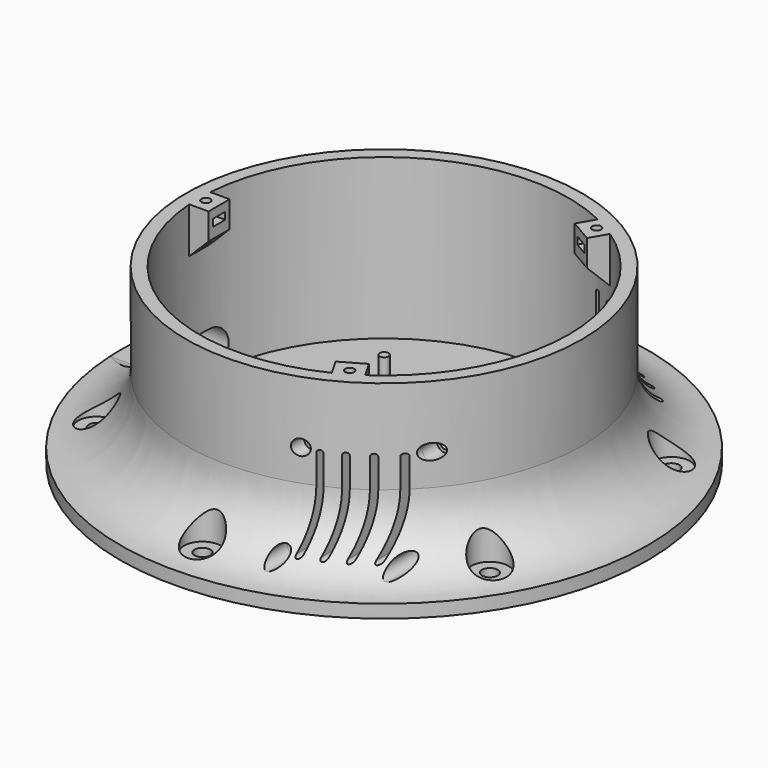
from build123d import *

# Parameters (mm, degrees)
CYLINDER_R               = 2.95
CYLINDER_DEPTH           = 7
CYLINDER001_R            = 1.7
CYLINDER001_DEPTH        = 30
PAD002_DEPTH             = 2.7
CYLINDER1049_R           = 3.4
CYLINDER1049_DEPTH       = 10
PAD046_DEPTH             = 10
CYLINDER1050_R           = 3
CYLINDER1050_DEPTH       = 15
CYLINDER1051_R           = 7
CYLINDER1051_DEPTH       = 15
PAD050_DEPTH             = 100
CLONE444_PITCH_ANGLE     = 90
CLONE444_PLACEMENT_ANGLE = 90
CLONE445_PITCH_ANGLE     = 90
CLONE445_PLACEMENT_ANGLE = 90
CLONE446_PITCH_ANGLE     = 90
CLONE446_PLACEMENT_ANGLE = 90
CLONE447_PITCH_ANGLE     = 90
CLONE447_PLACEMENT_ANGLE = 90
BOX_W                    = 42
BOX_H                    = 7
BOX_DEPTH                = 42
CYLINDER1052_R           = 1.7
CYLINDER1052_DEPTH       = 21
CYLINDER1052_ROLL_ANGLE  = 90
CYLINDER1053_R           = 2.95
CYLINDER1053_DEPTH       = 21
CYLINDER1053_ROLL_ANGLE  = 90
CYLINDER1054_R           = 2.95
CYLINDER1054_DEPTH       = 21
CYLINDER1054_ROLL_ANGLE  = 90
CYLINDER1055_R           = 2.95
CYLINDER1055_DEPTH       = 21
CYLINDER1055_ROLL_ANGLE  = 90
CYLINDER1056_R           = 1.7
CYLINDER1056_DEPTH       = 21
CYLINDER1056_ROLL_ANGLE  = 90
PAD047_DEPTH             = 40
ARRAY024_COUNT           = 6
CLONE398_PLACEMENT_ANGLE = 180
ARRAY023_COUNT           = 3
ARRAY022_COUNT           = 3
PAD_DEPTH                = 47


with BuildPart() as m3bolthead:
    # Cylinder → Cylinder (new body)
    with BuildSketch(Plane.XY):
        Circle(CYLINDER_R)
    extrude(amount=CYLINDER_DEPTH)


with BuildPart() as m3bolt:
    # Cylinder001 → Cylinder001 (new body)
    with BuildSketch(Plane.XY.offset(6)):
        Circle(CYLINDER001_R)
    extrude(amount=CYLINDER001_DEPTH)

    # Fusion: union M3BoltHead
    add(m3bolthead.part)


with BuildPart() as m3nuthousing:
    # Sketch003 → Pad002 (new body)
    with BuildSketch(Plane.XY):
        Polygon((0, 0), (1.674316, 2.9), (21.674316, 2.9), (21.674316, -2.9), (1.674316, -2.9), align=None)
    extrude(amount=PAD002_DEPTH)


with BuildPart() as obj1:
    # Cylinder1049 → Cylinder1049 (new body)
    with BuildSketch(Plane.XY):
        Circle(CYLINDER1049_R)
    extrude(amount=CYLINDER1049_DEPTH)


with BuildPart() as obj2:
    # Sketch077 → Pad046 (new body)
    with BuildSketch(Plane.XZ):
        Polygon((0, 0), (0, 20), (10, 20), (10, 10), align=None)
    extrude(amount=PAD046_DEPTH)


with BuildPart() as m6bolt:
    # Cylinder1050 → Cylinder1050 (new body)
    with BuildSketch(Plane.XY):
        Circle(CYLINDER1050_R)
    extrude(amount=CYLINDER1050_DEPTH)


with BuildPart() as m6washer:
    # Cylinder1051 → Cylinder1051 (new body)
    with BuildSketch(Plane.XY):
        Circle(CYLINDER1051_R)
    extrude(amount=CYLINDER1051_DEPTH)


with BuildPart() as pad050:
    # Sketch082 → Pad050 (new body, symmetric)
    with BuildSketch(Plane(origin=(44.5, 0, 11), x_dir=(1, 0, 0), z_dir=(0, -1, 0))):
        with BuildLine():
            ThreePointArc((1, 30), (0, 31), (-1, 30))
            Line((-1, 30), (-1, 0))
            ThreePointArc((-1, 0), (0, -1), (1, 0))
            Line((1, 30), (1, 0))
        make_face()
    extrude(amount=PAD050_DEPTH, both=True)


with BuildPart() as clone_of_pad050:
    # Clone base: copy of Pad050
    add(pad050.part)


with BuildPart() as clone_of_pad050_1:
    # Clone placement: moved
    add(clone_of_pad050.part.moved(Location((7, 0, 0))))


with BuildPart() as clone_of_pad052:
    # Clone402 base: copy of Pad050
    add(pad050.part)


with BuildPart() as clone_of_pad052_1:
    # Clone402 placement: moved
    add(clone_of_pad052.part.moved(Location((-7, 0, 0))))


with BuildPart() as clone_of_pad053:
    # Clone403 base: copy of Pad050
    add(pad050.part)


with BuildPart() as clone_of_pad053_1:
    # Clone403 placement: moved
    add(clone_of_pad053.part.moved(Location((-14, 0, 0))))


with BuildPart() as clone_of_m3bolt130:
    # Clone444 base: copy of M3Bolt
    add(m3bolt.part)


with BuildPart() as clone_of_m3bolt130_1:
    # Clone444 pitch: moved
    add(clone_of_m3bolt130.part.rotate(Axis((0, 0, 0), (0, 1, 0)), CLONE444_PITCH_ANGLE))


with BuildPart() as clone_of_m3bolt130_2:
    # Clone444 placement: moved
    add(clone_of_m3bolt130_1.part.moved(Location((57, -50.5, 10))).rotate(Axis((57, -50.5, 10), (0, 0, 1)), CLONE444_PLACEMENT_ANGLE))


with BuildPart() as clone_of_m3bolt131:
    # Clone445 base: copy of M3Bolt
    add(m3bolt.part)


with BuildPart() as clone_of_m3bolt131_1:
    # Clone445 pitch: moved
    add(clone_of_m3bolt131.part.rotate(Axis((0, 0, 0), (0, 1, 0)), CLONE445_PITCH_ANGLE))


with BuildPart() as clone_of_m3bolt131_2:
    # Clone445 placement: moved
    add(clone_of_m3bolt131_1.part.moved(Location((25, -73.5, 10))).rotate(Axis((25, -73.5, 10), (0, 0, 1)), CLONE445_PLACEMENT_ANGLE))


with BuildPart() as clone_of_m3bolt132:
    # Clone446 base: copy of M3Bolt
    add(m3bolt.part)


with BuildPart() as clone_of_m3bolt132_1:
    # Clone446 pitch: moved
    add(clone_of_m3bolt132.part.rotate(Axis((0, 0, 0), (0, 1, 0)), CLONE446_PITCH_ANGLE))


with BuildPart() as clone_of_m3bolt132_2:
    # Clone446 placement: moved
    add(clone_of_m3bolt132_1.part.moved(Location((57, -49.5, 42))).rotate(Axis((57, -49.5, 42), (0, 0, 1)), CLONE446_PLACEMENT_ANGLE))


with BuildPart() as clone_of_m3bolt133:
    # Clone447 base: copy of M3Bolt
    add(m3bolt.part)


with BuildPart() as clone_of_m3bolt133_1:
    # Clone447 pitch: moved
    add(clone_of_m3bolt133.part.rotate(Axis((0, 0, 0), (0, 1, 0)), CLONE447_PITCH_ANGLE))


with BuildPart() as clone_of_m3bolt133_2:
    # Clone447 placement: moved
    add(clone_of_m3bolt133_1.part.moved(Location((25, -72.5, 42))).rotate(Axis((25, -72.5, 42), (0, 0, 1)), CLONE447_PLACEMENT_ANGLE))


with BuildPart() as cube:
    # Box → Box (new body)
    with BuildSketch(Plane(origin=(21, -36, 5), x_dir=(1, 0, 0), z_dir=(0, 0, 1))):
        with Locations((21, 3.5)):
            Rectangle(BOX_W, BOX_H)
    extrude(amount=BOX_DEPTH)


with BuildPart() as cylinder:
    # Cylinder1052 → Cylinder1052 (new body)
    with BuildSketch(Plane.XY):
        Circle(CYLINDER1052_R)
    extrude(amount=CYLINDER1052_DEPTH)


with BuildPart() as cylinder_1:
    # Cylinder1052 roll: moved
    add(cylinder.part.rotate(Axis((0, 0, 0), (1, 0, 0)), CYLINDER1052_ROLL_ANGLE))


with BuildPart() as cylinder_2:
    # Cylinder1052 placement: moved
    add(cylinder_1.part.moved(Location((25, -16.5, 42))))


with BuildPart() as cylinder001:
    # Cylinder1053 → Cylinder1053 (new body)
    with BuildSketch(Plane.XY):
        Circle(CYLINDER1053_R)
    extrude(amount=CYLINDER1053_DEPTH)


with BuildPart() as cylinder001_1:
    # Cylinder1053 roll: moved
    add(cylinder001.part.rotate(Axis((0, 0, 0), (1, 0, 0)), CYLINDER1053_ROLL_ANGLE))


with BuildPart() as cylinder001_2:
    # Cylinder1053 placement: moved
    add(cylinder001_1.part.moved(Location((57, -50.5, 10))))


with BuildPart() as cylinder002:
    # Cylinder1054 → Cylinder1054 (new body)
    with BuildSketch(Plane.XY):
        Circle(CYLINDER1054_R)
    extrude(amount=CYLINDER1054_DEPTH)


with BuildPart() as cylinder002_1:
    # Cylinder1054 roll: moved
    add(cylinder002.part.rotate(Axis((0, 0, 0), (1, 0, 0)), CYLINDER1054_ROLL_ANGLE))


with BuildPart() as cylinder002_2:
    # Cylinder1054 placement: moved
    add(cylinder002_1.part.moved(Location((25, -73.5, 10))))


with BuildPart() as cylinder003:
    # Cylinder1055 → Cylinder1055 (new body)
    with BuildSketch(Plane.XY):
        Circle(CYLINDER1055_R)
    extrude(amount=CYLINDER1055_DEPTH)


with BuildPart() as cylinder003_1:
    # Cylinder1055 roll: moved
    add(cylinder003.part.rotate(Axis((0, 0, 0), (1, 0, 0)), CYLINDER1055_ROLL_ANGLE))


with BuildPart() as cylinder003_2:
    # Cylinder1055 placement: moved
    add(cylinder003_1.part.moved(Location((57, -49.5, 42))))


with BuildPart() as cylinder004:
    # Cylinder1056 → Cylinder1056 (new body)
    with BuildSketch(Plane.XY):
        Circle(CYLINDER1056_R)
    extrude(amount=CYLINDER1056_DEPTH)


with BuildPart() as cylinder004_1:
    # Cylinder1056 roll: moved
    add(cylinder004.part.rotate(Axis((0, 0, 0), (1, 0, 0)), CYLINDER1056_ROLL_ANGLE))


with BuildPart() as cylinder004_2:
    # Cylinder1056 placement: moved
    add(cylinder004_1.part.moved(Location((25, -17.5, 10))))


with BuildPart() as fusion150:
    # Fusion150 base: copy of Pad050
    add(pad050.part)

    # Fusion150: union Clone of Pad050, Clone of Pad052, Clone of Pad053, Clone of M3Bolt130, Clone of M3Bolt131, Clone of M3Bolt132, Clone of M3Bolt133, Cube, Cylinder, Cylinder001, Cylinder002, Cylinder003, Cylinder004
    add(clone_of_pad050_1.part)
    add(clone_of_pad052_1.part)
    add(clone_of_pad053_1.part)
    add(clone_of_m3bolt130_2.part)
    add(clone_of_m3bolt131_2.part)
    add(clone_of_m3bolt132_2.part)
    add(clone_of_m3bolt133_2.part)
    add(cube.part)
    add(cylinder_2.part)
    add(cylinder001_2.part)
    add(cylinder002_2.part)
    add(cylinder003_2.part)
    add(cylinder004_2.part)


with BuildPart() as pad047:
    # Sketch078 → Pad047 (new body)
    with BuildSketch(Plane(origin=(-60, 0, 12.5), x_dir=(0, -1, 0), z_dir=(-1, 0, 0))):
        with BuildLine():
            ThreePointArc((-5, 7.5), (-12.5, 0), (-5, -7.5))
            Line((-5, -7.5), (5, -7.5))
            ThreePointArc((5, -7.5), (12.5, 0), (5, 7.5))
            Line((-5, 7.5), (5, 7.5))
        make_face()
    extrude(amount=PAD047_DEPTH)


with BuildPart() as clone_of_m6washer:
    # Clone400 base: copy of M6Washer
    add(m6washer.part)


with BuildPart() as clone_of_m6washer_1:
    # Clone400 placement: moved
    add(clone_of_m6washer.part.moved(Location((0, 86, 5))))


with BuildPart() as array024:
    # Clone399 base: copy of M6Bolt
    add(m6bolt.part)


with BuildPart() as array024_1:
    # Clone399 placement: moved
    add(array024.part.moved(Location((0, 86, 0))))

    # Fusion148: union Clone of M6Washer
    add(clone_of_m6washer_1.part)

    # Array024: Array024 ×6 about axis
    array024_axis = Axis((0, 0, 0), (0, 0, 1))


with BuildPart() as array024_2:
    add(array024_1.part)
    for i in range(1, ARRAY024_COUNT):
        add(array024_1.part.rotate(array024_axis, i * 360 / ARRAY024_COUNT))


with BuildPart() as clone_of_m3bolt129:
    # Clone398 base: copy of M3Bolt
    add(m3bolt.part)


with BuildPart() as clone_of_m3bolt129_1:
    # Clone398 placement: moved
    add(clone_of_m3bolt129.part.moved(Location((-67.5, 0, 81.5))).rotate(Axis((-67.5, 0, 81.5), (0, 1, 0)), CLONE398_PLACEMENT_ANGLE))


with BuildPart() as array023:
    # Clone397 base: copy of M3NutHousing
    add(m3nuthousing.part)


with BuildPart() as array023_1:
    # Clone397 placement: moved
    add(array023.part.moved(Location((-71, 0, 59.5))))

    # Fusion146: union Clone of M3Bolt129
    add(clone_of_m3bolt129_1.part)

    # Array023: Array023 ×3 about axis
    array023_axis = Axis((0, 0, 0), (0, 0, 1))


with BuildPart() as array023_2:
    add(array023_1.part)
    for i in range(1, ARRAY023_COUNT):
        add(array023_1.part.rotate(array023_axis, i * 360 / ARRAY023_COUNT))


with BuildPart() as array022:
    # Clone396 base: copy of obj2
    add(obj2.part)


with BuildPart() as array022_1:
    # Clone396 placement: moved
    add(array022.part.moved(Location((-72.5, 5, 45.5))))

    # Array022: Array022 ×3 about axis
    array022_axis = Axis((0, 0, 0), (0, 0, 1))


with BuildPart() as array022_2:
    add(array022_1.part)
    for i in range(1, ARRAY022_COUNT):
        add(array022_1.part.rotate(array022_axis, i * 360 / ARRAY022_COUNT))


with BuildPart() as obj3:
    # Clone385 base: copy of obj1
    add(obj1.part)


with BuildPart() as obj3_1:
    # Clone385 placement: moved
    add(obj3.part.moved(Location((55.5, -15.5, -7.5))))


with BuildPart() as obj4:
    # Clone386 base: copy of obj1
    add(obj1.part)


with BuildPart() as obj4_1:
    # Clone386 placement: moved
    add(obj4.part.moved(Location((24.5, 15.5, -7.5))))


with BuildPart() as obj5:
    # Clone387 base: copy of obj1
    add(obj1.part)


with BuildPart() as obj5_1:
    # Clone387 placement: moved
    add(obj5.part.moved(Location((24.5, -15.5, -7.5))))


with BuildPart() as clone_of_m3bolt124:
    # Clone388 base: copy of M3Bolt
    add(m3bolt.part)


with BuildPart() as clone_of_m3bolt124_1:
    # Clone388 placement: moved
    add(clone_of_m3bolt124.part.moved(Location((24.5, -15.5, -14.5))))


with BuildPart() as clone_of_m3bolt125:
    # Clone389 base: copy of M3Bolt
    add(m3bolt.part)


with BuildPart() as clone_of_m3bolt125_1:
    # Clone389 placement: moved
    add(clone_of_m3bolt125.part.moved(Location((24.5, 15.5, -14.5))))


with BuildPart() as clone_of_m3bolt126:
    # Clone390 base: copy of M3Bolt
    add(m3bolt.part)


with BuildPart() as clone_of_m3bolt126_1:
    # Clone390 placement: moved
    add(clone_of_m3bolt126.part.moved(Location((55.5, 15.5, -14.5))))


with BuildPart() as clone_of_m3bolt127:
    # Clone391 base: copy of M3Bolt
    add(m3bolt.part)


with BuildPart() as clone_of_m3bolt127_1:
    # Clone391 placement: moved
    add(clone_of_m3bolt127.part.moved(Location((55.5, -15.5, -14.5))))


with BuildPart() as fusion145:
    # Clone384 base: copy of obj1
    add(obj1.part)


with BuildPart() as fusion145_1:
    # Clone384 placement: moved
    add(fusion145.part.moved(Location((55.5, 15.5, -7.5))))

    # Fusion145: union obj3, obj4, obj5, Clone of M3Bolt124, Clone of M3Bolt125, Clone of M3Bolt126, Clone of M3Bolt127
    add(obj3_1.part)
    add(obj4_1.part)
    add(obj5_1.part)
    add(clone_of_m3bolt124_1.part)
    add(clone_of_m3bolt125_1.part)
    add(clone_of_m3bolt126_1.part)
    add(clone_of_m3bolt127_1.part)


with BuildPart() as cut174:
    # Sketch075 → Revolution020 (revolve)
    with BuildSketch(Plane.XZ):
        with BuildLine():
            Line((0, 0), (100, 0))
            Line((100, 0), (100, 5))
            ThreePointArc((75, 30.000002), (82.32233, 12.322331), (100, 5))
            Line((75, 65.5), (75, 30.000002))
            Line((70, 65.5), (75, 65.5))
            Line((70, 5), (70, 65.5))
            Line((0, 5), (70, 5))
            Line((0, 0), (0, 5))
        make_face()
    revolve(axis=Axis((0, 0, 0), (0, 0, 1)))

    # Cut127: cut Fusion145
    add(fusion145_1.part, mode=Mode.SUBTRACT)

    # Fusion147: union Array022
    add(array022_2.part)

    # Cut129: cut Array023
    add(array023_2.part, mode=Mode.SUBTRACT)

    # Cut130: cut Array024
    add(array024_2.part, mode=Mode.SUBTRACT)

    # Cut131: cut Pad047
    add(pad047.part, mode=Mode.SUBTRACT)


with BuildPart() as basebot:
    # Sketch → Pad (new body)
    with BuildSketch(Plane.XY):
        with BuildLine():
            Line((21.589684, -35.851807), (21.589684, -69.734393))
            ThreePointArc((21.589684, -69.734393), (45.835452, -56.816471), (63.589684, -35.851807))
            Line((21.589684, -35.851807), (63.589684, -35.851807))
        make_face()
    extrude(amount=PAD_DEPTH)

    # Fusion149: union Cut174
    add(cut174.part)

    # Cut: cut Fusion150
    add(fusion150.part, mode=Mode.SUBTRACT)


solid = Compound([m3bolt.part, m3nuthousing.part, obj1.part, obj2.part, m6bolt.part, m6washer.part, basebot.part])
